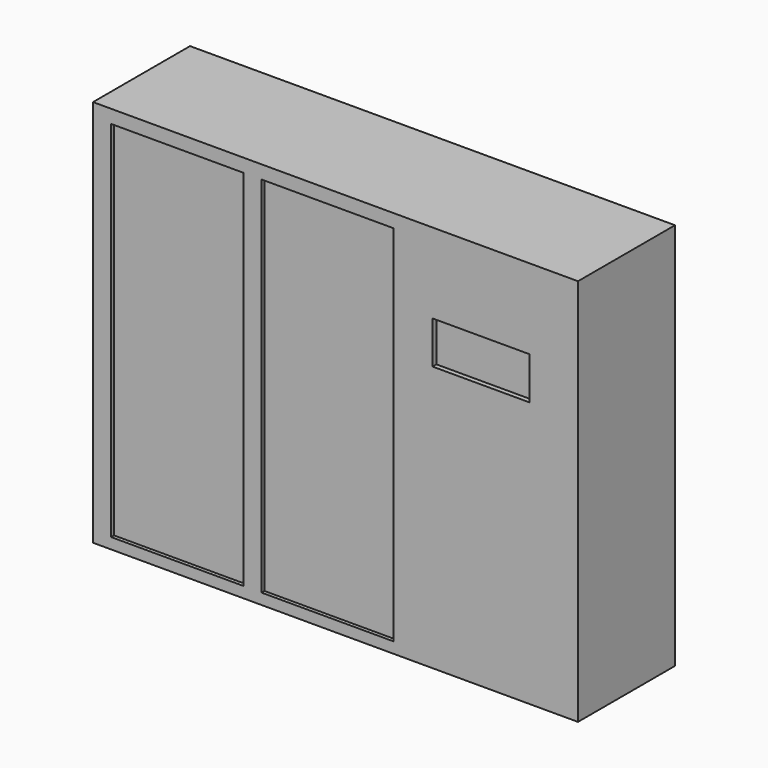
from build123d import *

# Parameters (mm, degrees)
F0_W     = 2000
F0_H     = 1600
F1_DEPTH = 500
F2_W     = 400
F2_H     = 175
F3_DEPTH = 20
F4_W     = 545
F4_H     = 1500
F5_DEPTH = 15


with BuildPart() as f1:
    # F0 (on Front) → F1 (new body)
    with BuildSketch(Plane.XZ):
        with Locations((1000, 800)):
            Rectangle(F0_W, F0_H)
    extrude(amount=F1_DEPTH)

    # F2 (on face) → F3 (cut)
    with BuildSketch(Plane.XZ.offset(500)):
        with Locations((1600, 1182.5)):
            Rectangle(F2_W, F2_H)
    extrude(amount=-F3_DEPTH, mode=Mode.SUBTRACT)

    # F4 (on face) → F5 (cut)
    with BuildSketch(Plane.XZ.offset(500)):
        with Locations((347.5, 795)):
            Rectangle(F4_W, F4_H)
        with Locations((967.5, 795)):
            Rectangle(F4_W, F4_H)
    extrude(amount=-F5_DEPTH, mode=Mode.SUBTRACT)


solid = f1.part
